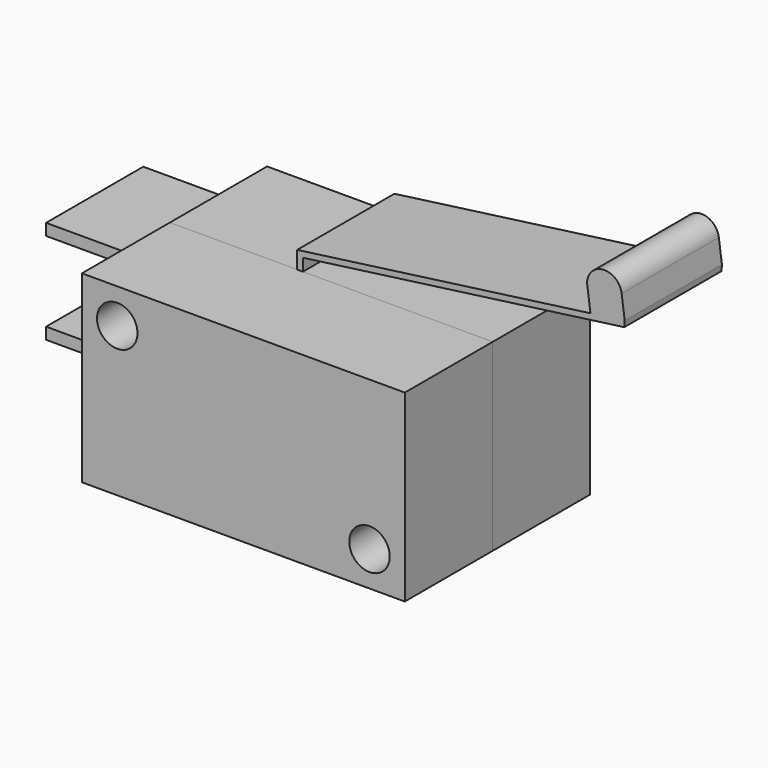
from build123d import *

# Parameters (mm, degrees)
F0_R     = 1.75
F1_DEPTH = 10.5
F2_W     = 27.9
F2_H     = 15.9
F2_R     = 1.75
F3_DEPTH = 9.5


with BuildPart() as f1:
    # F0 (on Front) → F1 (new body)
    with BuildSketch(Plane.XZ):
        with BuildLine():
            Line((0, -7.95), (13.95, -7.95))
            Line((13.95, -7.95), (13.95, 7.95))
            Line((13.95, 7.95), (-2.45, 7.95))
            Line((-2.45, 7.95), (-2.45, 9.012921))
            Line((-2.45, 9.012921), (25.322966, 12.759513))
            Line((25.322966, 12.759513), (25.355926, 13.268488))
            Line((25.355926, 13.268488), (25.088547, 15.250535))
            ThreePointArc((25.088547, 15.250535), (23.501519, 16.54663), (22.102012, 15.05))
            Line((22.102012, 15.05), (22.3962, 12.869219))
            Line((22.3962, 12.869219), (-2.95, 9.45))
            Line((-2.95, 9.45), (-2.95, 7.95))
            Line((-2.95, 7.95), (-13.95, 7.95))
            Line((-13.95, 7.95), (-13.95, 4.45))
            Line((-13.95, 4.45), (-24.65, 4.45))
            Line((-24.65, 4.45), (-24.65, 3.45))
            Line((-24.65, 3.45), (-13.95, 3.45))
            Line((-13.95, 3.45), (-13.95, -3.45))
            Line((-13.95, -3.45), (-24.65, -3.45))
            Line((-24.65, -3.45), (-24.65, -4.45))
            Line((-24.65, -4.45), (-13.95, -4.45))
            Line((-13.95, -4.45), (-13.95, -7.95))
            Line((-13.95, -7.95), (-1, -7.95))
            Line((-1, -7.95), (-1, -9.85))
            Line((-1, -9.85), (-10.9, -9.85))
            Line((-10.9, -9.85), (-10.9, -10.85))
            Line((-10.9, -10.85), (-1, -10.85))
            Line((-1, -10.85), (0, -10.85))
            Line((0, -10.85), (0, -7.95))
        make_face()
        with Locations((10.9, -4.95)):
            Circle(F0_R, mode=Mode.SUBTRACT)
        with Locations((-10.9, 4.95)):
            Circle(F0_R, mode=Mode.SUBTRACT)
    extrude(amount=F1_DEPTH)


with BuildPart() as f3:
    # F2 (on face) → F3 (new body)
    with BuildSketch(Plane.XZ.offset(10.5)):
        Rectangle(F2_W, F2_H)
        with Locations((10.9, -4.95)):
            Circle(F2_R, mode=Mode.SUBTRACT)
        with Locations((-10.9, 4.95)):
            Circle(F2_R, mode=Mode.SUBTRACT)
    extrude(amount=F3_DEPTH)


solid = Compound([f1.part, f3.part])
